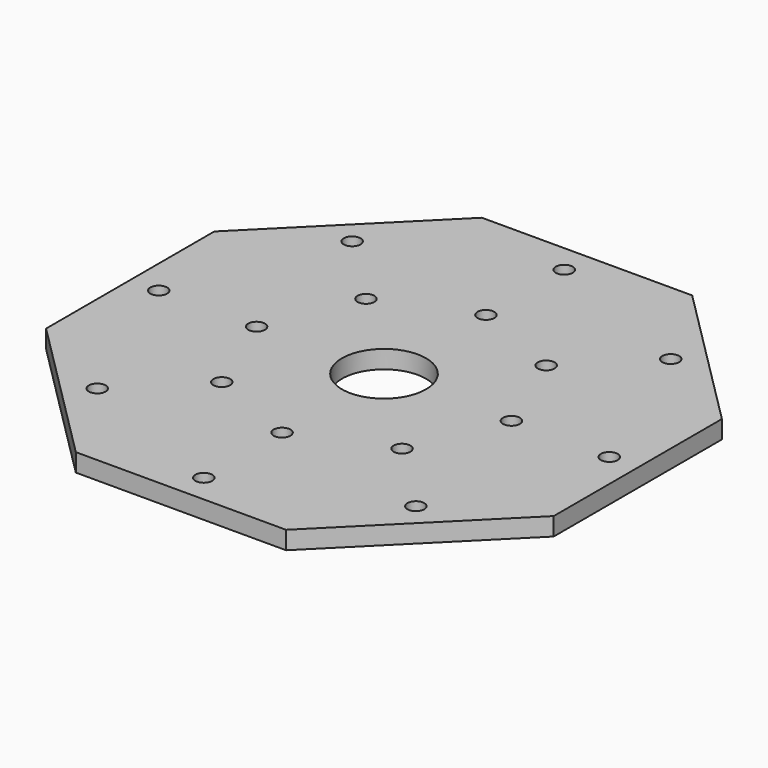
from build123d import *

# Parameters (mm, degrees)
F0_R     = 1.4
F0_R_2   = 7
F1_DEPTH = 3


with BuildPart() as f1:
    # F0 (on Top) → F1 (new body)
    with BuildSketch(Plane.XY):
        Polygon((17.5, 42.248737), (-17.5, 42.248737), (-42.248737, 17.5), (-42.248737, -17.5), (-17.5, -42.248737), (17.5, -42.248737), (42.248737, -17.5), (42.248737, 17.5), align=None)
        with Locations((-26.516504, -26.516504)):
            Circle(F0_R, mode=Mode.SUBTRACT)
        with Locations((-37.5, 0)):
            Circle(F0_R, mode=Mode.SUBTRACT)
        with Locations((-21.213203, 0)):
            Circle(F0_R, mode=Mode.SUBTRACT)
        with Locations((-15, -15)):
            Circle(F0_R, mode=Mode.SUBTRACT)
        with Locations((0, -37.5)):
            Circle(F0_R, mode=Mode.SUBTRACT)
        with Locations((0, -21.213203)):
            Circle(F0_R, mode=Mode.SUBTRACT)
        with Locations((26.516504, -26.516504)):
            Circle(F0_R, mode=Mode.SUBTRACT)
        with Locations((15, -15)):
            Circle(F0_R, mode=Mode.SUBTRACT)
        Circle(F0_R_2, mode=Mode.SUBTRACT)
        with Locations((21.213203, 0)):
            Circle(F0_R, mode=Mode.SUBTRACT)
        with Locations((37.5, 0)):
            Circle(F0_R, mode=Mode.SUBTRACT)
        with Locations((-15, 15)):
            Circle(F0_R, mode=Mode.SUBTRACT)
        with Locations((-26.516504, 26.516504)):
            Circle(F0_R, mode=Mode.SUBTRACT)
        with Locations((15, 15)):
            Circle(F0_R, mode=Mode.SUBTRACT)
        with Locations((0, 21.213203)):
            Circle(F0_R, mode=Mode.SUBTRACT)
        with Locations((0, 37.5)):
            Circle(F0_R, mode=Mode.SUBTRACT)
        with Locations((26.516504, 26.516504)):
            Circle(F0_R, mode=Mode.SUBTRACT)
    extrude(amount=F1_DEPTH)


solid = f1.part
